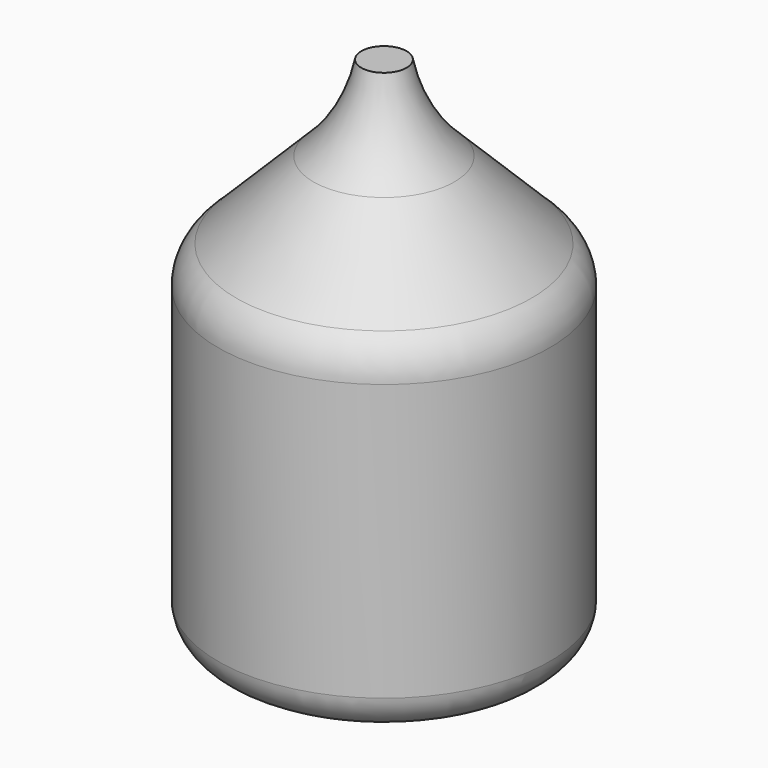
from build123d import *


with BuildPart() as f1:
    # F0 (on Front) → F1 (revolve)
    with BuildSketch(Plane.XZ):
        with BuildLine():
            Line((-106.41906, 0), (0, 0))
            Line((0, 0), (0, 431.8))
            Line((0, 431.8), (-19.05, 431.8))
            ThreePointArc((-19.05, 431.8), (-33.374918, 392.735388), (-59.376672, 360.252223))
            Line((-59.376672, 360.252223), (-124.457914, 295.170982))
            ThreePointArc((-124.457914, 295.170982), (-135.693072, 280.982156), (-139.7, 263.332903))
            Line((-139.7, 263.332903), (-139.7, 30.669922))
            ThreePointArc((-139.7, 30.669922), (-129.047942, 8.836739), (-106.41906, 0))
        make_face()
    revolve(axis=Axis((0, 0, 215.9), (0, 0, 1)))


solid = f1.part
